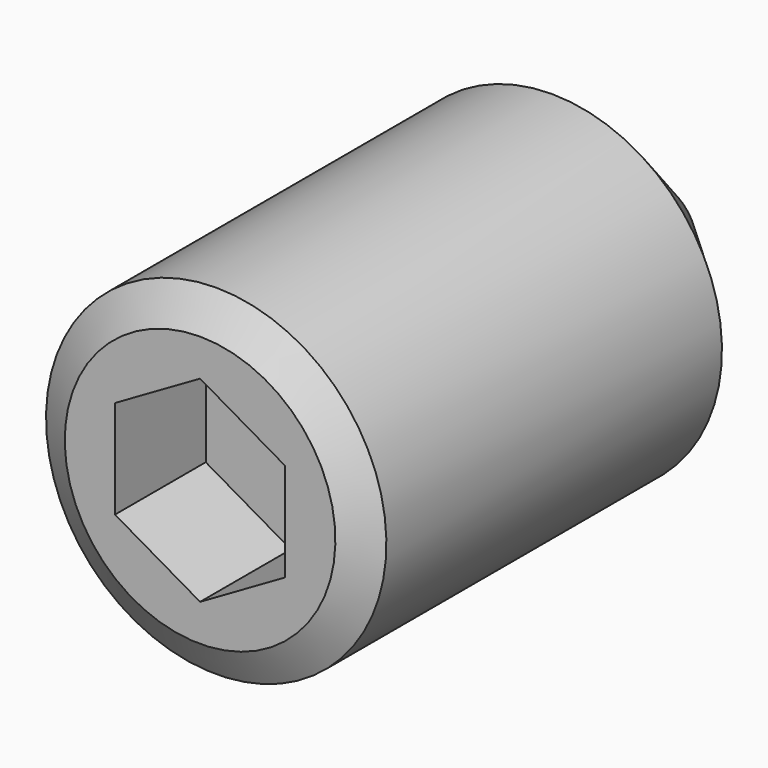
from build123d import *

# Parameters (mm, degrees)
POCKET_DEPTH = 2


with BuildPart() as part:
    # Sketch → Revolution (revolve)
    with BuildSketch(Plane.YZ):
        Polygon((0, 0), (0, 2.385), (0.35507, 3), (7.75, 3), (10, 0.75), (10, 0), align=None)
    revolve(axis=Axis((0, 0, 0), (0, 1, 0)))

    # Sketch001 → Pocket (cut)
    with BuildSketch(Plane(origin=(0, 0, 0), x_dir=(0, 0, -1), z_dir=(0, -1, 0))):
        Polygon((-0.866025, -1.5), (0.866025, -1.5), (1.732051, 0), (0.866025, 1.5), (-0.866025, 1.5), (-1.732051, 0), align=None)
    extrude(amount=-POCKET_DEPTH, mode=Mode.SUBTRACT)


solid = part.part
